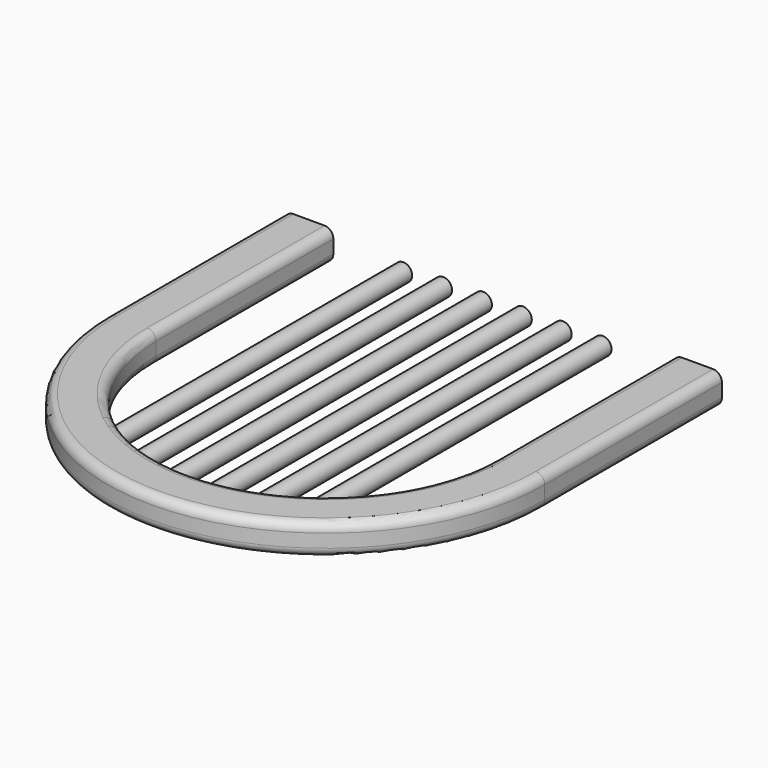
from build123d import *

# Parameters (mm, degrees)
SKETCH005_W  = 55
SKETCH005_H  = 35
PAD005_DEPTH = 250
PAD006_DEPTH = 35
SKETCH007_R  = 10
PAD007_DEPTH = 445
FILLET_R     = 10


with BuildPart() as part:
    # Sketch005 (on Face11 of Binder001) → Pad005 (new body)
    with BuildSketch(Plane.XZ.offset(475)):
        with Locations((-219, 260)):
            Rectangle(SKETCH005_W, SKETCH005_H)
    extrude(amount=PAD005_DEPTH)

    # Sketch006 (on Face1 of Pad005) → Pad006 (join)
    with BuildSketch(Plane(origin=(0, 0, 242.5), x_dir=(1, 0, 0), z_dir=(0, 0, -1))):
        with BuildLine():
            Line((192.09, 475), (192.09, 725))
            ThreePointArc((192.09, 725), (0.295, 916.795), (-191.5, 725))
            Line((-246.5, 725), (-191.5, 725))
            ThreePointArc((247.09, 725), (0.295, 971.795), (-246.5, 725))
            Line((247.09, 475), (247.09, 725))
            Line((192.09, 475), (247.09, 475))
        make_face()
    extrude(amount=-PAD006_DEPTH)

    # Sketch007 (on Face11 of Binder001) → Pad007 (join)
    with BuildSketch(Plane.XZ.offset(475)):
        with Locations((-112.5, 260)):
            Circle(SKETCH007_R)
        with Locations((-67.5, 260)):
            Circle(SKETCH007_R)
        with Locations((-22.5, 260)):
            Circle(SKETCH007_R)
        with Locations((22.5, 260)):
            Circle(SKETCH007_R)
        with Locations((67.5, 260)):
            Circle(SKETCH007_R)
        with Locations((112.5, 260)):
            Circle(SKETCH007_R)
    extrude(amount=PAD007_DEPTH)

    # Fillet
    fillet_edges = [part.edges().sort_by_distance(p)[0] for p in [
        (-191.5, -600, 242.5),
        (0.295, -971.795, 277.5),
        (0.295, -971.795, 242.5),
        (-191.5, -600, 277.5),
    ]]
    fillet(fillet_edges, radius=FILLET_R)


solid = part.part
